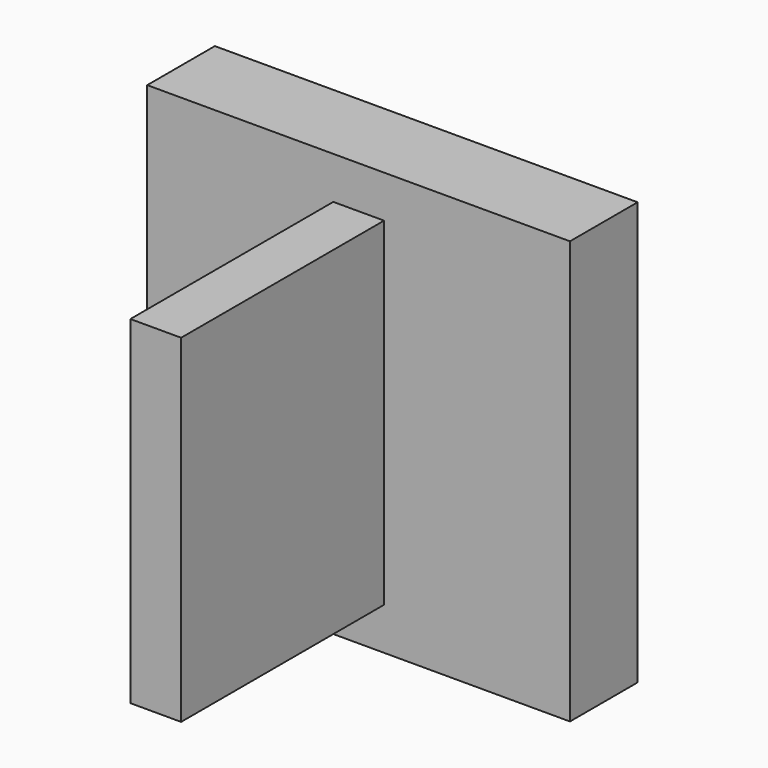
from build123d import *

# Parameters (mm, degrees)
F0_W     = 3.81
F0_H     = 19.05
F1_DEPTH = 25.4
F2_W     = 31.75
F2_H     = 31.75
F2_W_2   = 3.81
F2_H_2   = 25.4
F3_DEPTH = 6.35


with BuildPart() as f1:
    # F0 (on Top) → F1 (new body)
    with BuildSketch(Plane.XY):
        with Locations((-1.905, 9.525)):
            Rectangle(F0_W, F0_H)
    extrude(amount=F1_DEPTH)

    # F2 (on face) → F3 (join)
    with BuildSketch(Plane(origin=(0, 19.05, 0), x_dir=(-1, 0, 0), z_dir=(0, 1, 0))):
        with Locations((1.910725, 12.7)):
            Rectangle(F2_W, F2_H)
        with Locations((1.905, 12.7)):
            Rectangle(F2_W_2, F2_H_2, mode=Mode.SUBTRACT)
        with Locations((1.905, 12.7)):
            Rectangle(F2_W_2, F2_H_2)
    extrude(amount=F3_DEPTH)


solid = f1.part
